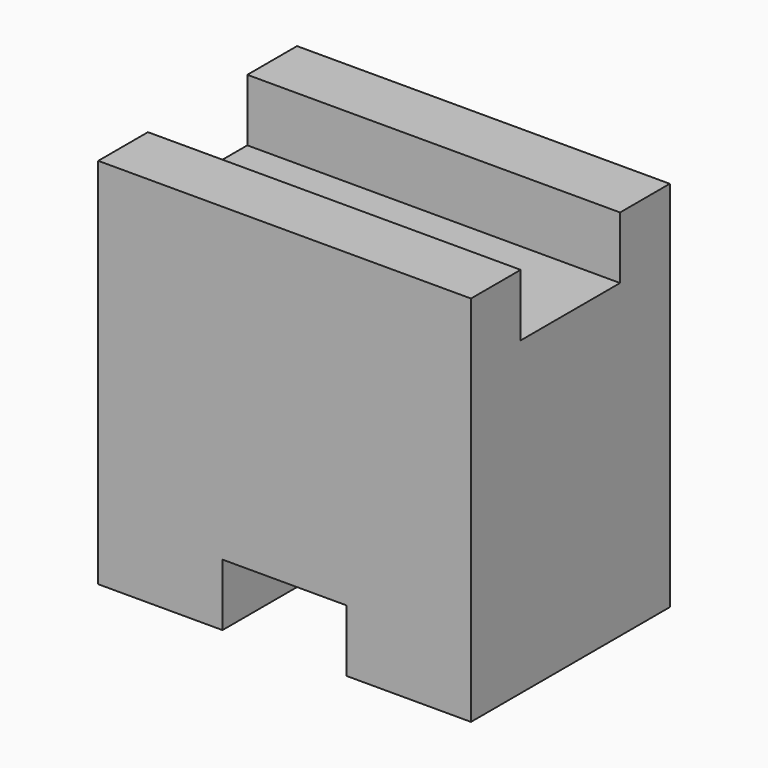
from build123d import *

# Parameters (mm, degrees)
F1_DEPTH = 38.1
F2_W     = 12.7
F2_H     = 6.35
F3_DEPTH = 25.4


with BuildPart() as f1:
    # F0 (on Right) → F1 (new body)
    with BuildSketch(Plane.YZ):
        Polygon((0, 38.1), (0, 0), (25.4, 0), (25.4, 38.1), (19.05, 38.1), (19.05, 31.75), (6.35, 31.75), (6.35, 38.1), align=None)
    extrude(amount=F1_DEPTH)

    # F2 (on Front) → F3 (cut)
    with BuildSketch(Plane.XZ):
        with Locations((19.05, 3.175)):
            Rectangle(F2_W, F2_H)
    extrude(amount=-F3_DEPTH, mode=Mode.SUBTRACT)


solid = f1.part
